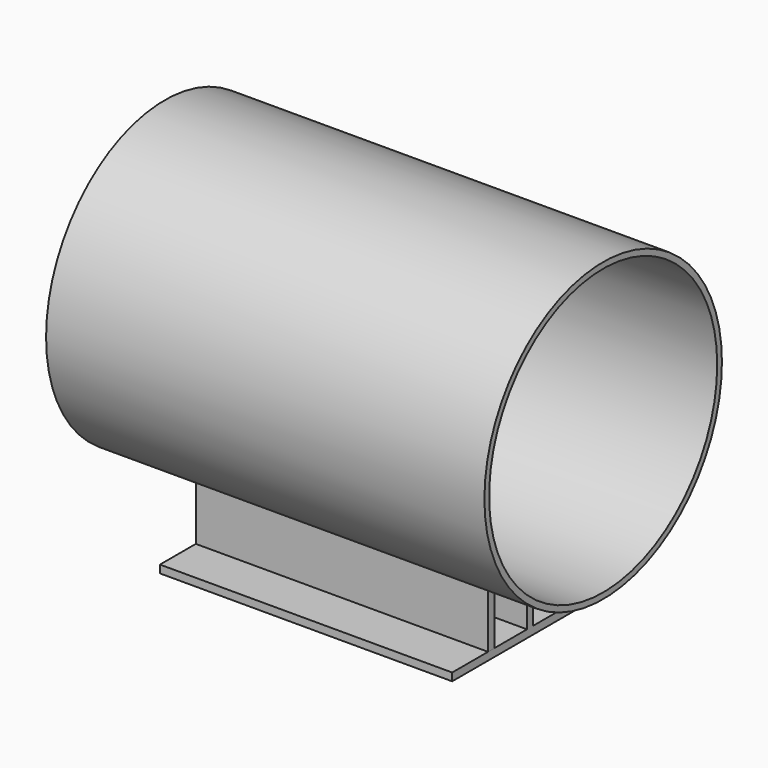
from build123d import *

# Parameters (mm, degrees)
F1_DEPTH  = 16
F2_W      = 600
F2_H      = 16
F4_DEPTH  = 100
F5_R      = 304.8
F6_DEPTH  = 450
F7_R      = 292.7
F8_DEPTH  = 900.001
F9_W      = 600
F9_H      = 16
F10_DEPTH = 125
F3_W      = 600
F3_H      = 16
F11_DEPTH = 125


with BuildPart() as f1:
    # F0 (on Top) → F1 (new body)
    with BuildSketch(Plane.XY):
        Polygon((0, 200), (-300, 200), (-300, -200), (300, -200), (300, 200), align=None)
    extrude(amount=F1_DEPTH)

    # F2 (on face) → F4 (join)
    with BuildSketch(Plane.XY.offset(16)):
        Rectangle(F2_W, F2_H)
    extrude(amount=F4_DEPTH)

    # F5 (on Right) → F6 (join, symmetric)
    with BuildSketch(Plane.YZ):
        with Locations((0, 420.8)):
            Circle(F5_R)
    extrude(amount=F6_DEPTH, both=True)

    # F7 (on face) → F8 (cut, through all)
    with BuildSketch(Plane.YZ.offset(450)):
        with Locations((0, 420.8)):
            Circle(F7_R)
    extrude(amount=-F8_DEPTH, mode=Mode.SUBTRACT)


with BuildPart() as f10:
    # F9 (on face) → F10 (new body)
    with BuildSketch(Plane.XY.offset(16)):
        with Locations((0, -100)):
            Rectangle(F9_W, F9_H)
    extrude(amount=F10_DEPTH)


with BuildPart() as f11:
    # F3 (on face) → F11 (new body)
    with BuildSketch(Plane.XY.offset(16)):
        with Locations((0.522536, 100)):
            Rectangle(F3_W, F3_H)
    extrude(amount=F11_DEPTH)


solid = Compound([f1.part, f10.part, f11.part])
